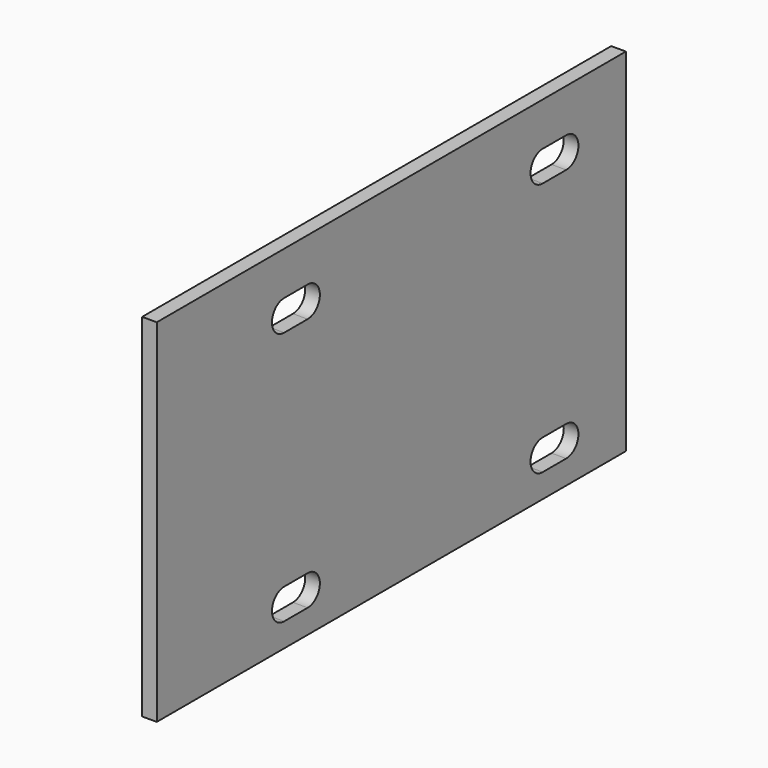
from build123d import *

# Parameters (mm, degrees)
F0_W     = 19.05
F0_H     = 457.2
F1_DEPTH = 381
F3_DEPTH = 19.051


with BuildPart() as f1:
    # F0 (on Front) → F1 (new body, symmetric)
    with BuildSketch(Plane.XZ):
        with Locations((-9.525, 0)):
            Rectangle(F0_W, F0_H)
    extrude(amount=F1_DEPTH, both=True)

    # F2 (on face) → F3 (cut, through all)
    with BuildSketch(Plane.YZ):
        with BuildLine():
            ThreePointArc((-174.0408, -157.95625), (-193.88455, -177.8), (-174.0408, -197.64375))
            Line((-174.0408, -197.64375), (-154.9908, -197.64375))
            ThreePointArc((-154.9908, -197.64375), (-174.83455, -177.8), (-154.9908, -157.95625))
            Line((-154.9908, -157.95625), (-174.0408, -157.95625))
        make_face()
        with BuildLine():
            ThreePointArc((-154.9908, -157.95625), (-174.83455, -177.8), (-154.9908, -197.64375))
            ThreePointArc((-154.9908, -197.64375), (-135.14705, -177.8), (-154.9908, -157.95625))
        make_face()
        with BuildLine():
            ThreePointArc((-154.9908, -157.95625), (-135.14705, -177.8), (-154.9908, -197.64375))
            Line((-154.9908, -197.64375), (-135.9408, -197.64375))
            ThreePointArc((-135.9408, -197.64375), (-116.09705, -177.8), (-135.9408, -157.95625))
            Line((-135.9408, -157.95625), (-154.9908, -157.95625))
        make_face()
        with BuildLine():
            ThreePointArc((245.9482, -157.95625), (226.10445, -177.8), (245.9482, -197.64375))
            Line((245.9482, -197.64375), (264.9982, -197.64375))
            ThreePointArc((264.9982, -197.64375), (245.15445, -177.8), (264.9982, -157.95625))
            Line((264.9982, -157.95625), (245.9482, -157.95625))
        make_face()
        with BuildLine():
            ThreePointArc((264.9982, -157.95625), (245.15445, -177.8), (264.9982, -197.64375))
            ThreePointArc((264.9982, -197.64375), (284.84195, -177.8), (264.9982, -157.95625))
        make_face()
        with BuildLine():
            ThreePointArc((264.9982, -157.95625), (284.84195, -177.8), (264.9982, -197.64375))
            Line((264.9982, -197.64375), (284.0482, -197.64375))
            ThreePointArc((284.0482, -197.64375), (303.89195, -177.8), (284.0482, -157.95625))
            Line((284.0482, -157.95625), (264.9982, -157.95625))
        make_face()
        with BuildLine():
            ThreePointArc((-174.0408, 172.24375), (-193.88455, 152.4), (-174.0408, 132.55625))
            Line((-174.0408, 132.55625), (-154.9908, 132.55625))
            Line((-154.9908, 132.55625), (-135.9408, 132.55625))
            ThreePointArc((-135.9408, 132.55625), (-116.09705, 152.4), (-135.9408, 172.24375))
            Line((-135.9408, 172.24375), (-154.9908, 172.24375))
            Line((-154.9908, 172.24375), (-174.0408, 172.24375))
        make_face()
        with BuildLine():
            ThreePointArc((245.9482, 172.24375), (226.10445, 152.4), (245.9482, 132.55625))
            Line((245.9482, 132.55625), (264.9982, 132.55625))
            Line((264.9982, 132.55625), (284.0482, 132.55625))
            ThreePointArc((284.0482, 132.55625), (303.89195, 152.4), (284.0482, 172.24375))
            Line((284.0482, 172.24375), (264.9982, 172.24375))
            Line((264.9982, 172.24375), (245.9482, 172.24375))
        make_face()
    extrude(amount=-F3_DEPTH, mode=Mode.SUBTRACT)


solid = f1.part
